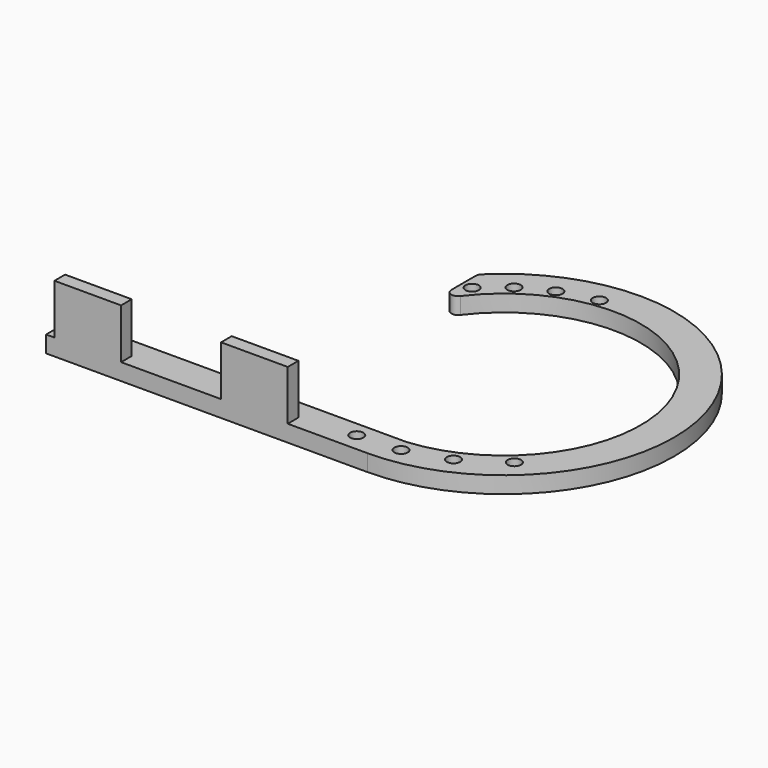
from build123d import *

# Parameters (mm, degrees)
F1_DEPTH = 5
F2_R     = 2
F3_R     = 2
F4_DEPTH = 5
F5_W     = 20
F5_H     = 4
F6_DEPTH = 15


with BuildPart() as f1:
    # F0 (on Top) → F1 (new body)
    with BuildSketch(Plane.XY):
        with BuildLine():
            ThreePointArc((-40, 70.154987), (30.639398, 73.914586), (0, 10.154987))
            Line((0, 10.154987), (-100, 10.154987))
            Line((-100, 10.154987), (-100, 0))
            Line((-100, 0), (-3.517851, 0))
            ThreePointArc((-3.517851, 0), (43.563989, 70.884062), (-40, 86.956077))
            Line((-40, 86.956077), (-40, 70.154987))
        make_face()
    extrude(amount=F1_DEPTH)

    # F2
    f2_edges = [f1.edges().sort_by_distance(p)[0] for p in [
        (-40, 70.154987, 2.5),
        (-40, 86.956077, 2.5),
    ]]
    fillet(f2_edges, radius=F2_R)

    # F3 (on face) → F4 (cut)
    with BuildSketch(Plane.XY.offset(5)):
        with Locations((-36.878993, 80.881587)):
            Circle(F3_R)
        with Locations((-20.412356, 91.712579)):
            Circle(F3_R)
        with Locations((-9.581419, 94.495535)):
            Circle(F3_R)
        with Locations((-29.287707, 87.124474)):
            Circle(F3_R)
        with Locations((-11.243654, 5.575917)):
            Circle(F3_R)
        with Locations((14.160543, 10.102125)):
            Circle(F3_R)
        with Locations((26.199445, 17.886208)):
            Circle(F3_R)
        with Locations((1.5747, 6.171187)):
            Circle(F3_R)
    extrude(amount=-F4_DEPTH, mode=Mode.SUBTRACT)

    # F5 (on face) → F6 (join)
    with BuildSketch(Plane.XY.offset(5)):
        with Locations((-37.5, 2)):
            Rectangle(F5_W, F5_H)
        with Locations((-87.5, 2)):
            Rectangle(F5_W, F5_H)
    extrude(amount=F6_DEPTH)


solid = f1.part
